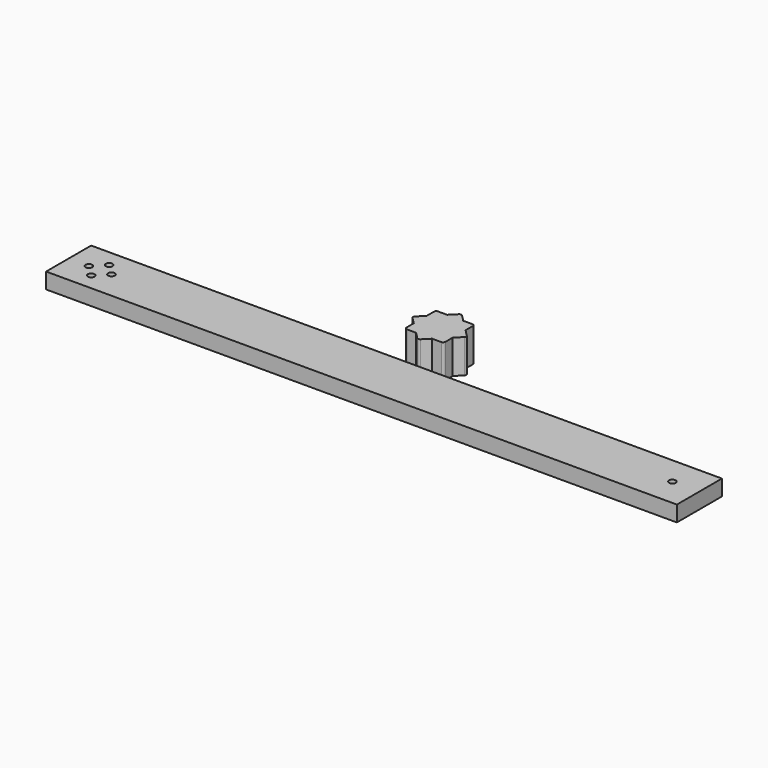
from build123d import *

# Parameters (mm, degrees)
F1_DEPTH = 15
F4_R     = 1
F5_W     = 280
F5_H     = 25
F6_DEPTH = 7
F8_R     = 1.5
F9_DEPTH = 7


with BuildPart() as f1:
    # F0 (on Top) → F1 (new body)
    with BuildSketch(Plane.XY):
        Polygon((-3.5732972695, 8.6267027305), (-8.6267027305, 8.6267027305), (-8.6267027305, 3.5732972695), align=None)
        Polygon((0, 12.2), (-3.5732972695, 8.6267027305), (3.5732972695, 8.6267027305), align=None)
        Polygon((3.5732972695, 8.6267027305), (-3.5732972695, 8.6267027305), (-8.6267027305, 3.5732972695), (-8.6267027305, -3.5732972695), (-3.5732972695, -8.6267027305), (3.5732972695, -8.6267027305), (8.6267027305, -3.5732972695), (8.6267027305, 3.5732972695), align=None)
        Polygon((-8.6267027305, -3.5732972695), (-8.6267027305, 3.5732972695), (-12.2, 0), align=None)
        Polygon((8.6267027305, 8.6267027305), (3.5732972695, 8.6267027305), (8.6267027305, 3.5732972695), align=None)
        Polygon((-3.5732972695, -8.6267027305), (-8.6267027305, -3.5732972695), (-8.6267027305, -8.6267027305), align=None)
        Polygon((12.2, 0), (8.6267027305, 3.5732972695), (8.6267027305, -3.5732972695), align=None)
        Polygon((3.5732972695, -8.6267027305), (-3.5732972695, -8.6267027305), (0, -12.2), align=None)
        Polygon((8.6267027305, -8.6267027305), (8.6267027305, -3.5732972695), (3.5732972695, -8.6267027305), align=None)
    extrude(amount=F1_DEPTH)

    # F4
    f4_edges = [f1.edges().sort_by_distance(p)[0] for p in [
        (8.626703, 8.626703, 7.5),
        (-8.626703, 8.626703, 7.5),
        (12.2, 0, 7.5),
        (8.626703, -8.626703, 7.5),
        (0, -12.2, 7.5),
        (-12.2, 0, 7.5),
        (-8.626703, -8.626703, 7.5),
        (0, 12.2, 7.5),
    ]]
    fillet(f4_edges, radius=F4_R)


with BuildPart() as f6:
    # F5 (on Top) → F6 (new body)
    with BuildSketch(Plane.XY):
        with Locations((-2.0142327994, -28.3556932964)):
            Rectangle(F5_W, F5_H)
    extrude(amount=F6_DEPTH)

    # F8 (on face) → F9 (cut, through all)
    with BuildSketch(Plane.XY.offset(7)):
        with Locations((-127.9870820045, -23.3556932964)):
            Circle(F8_R)
        with Locations((-132.9870820045, -28.3556932964)):
            Circle(F8_R)
        with Locations((-122.9870820045, -28.3556932964)):
            Circle(F8_R)
        with Locations((-127.9870820045, -33.3556932964)):
            Circle(F8_R)
        with Locations((126.0129179955, -28.3556932964)):
            Circle(F8_R)
    extrude(amount=-F9_DEPTH, mode=Mode.SUBTRACT)


solid = Compound([f1.part, f6.part])
